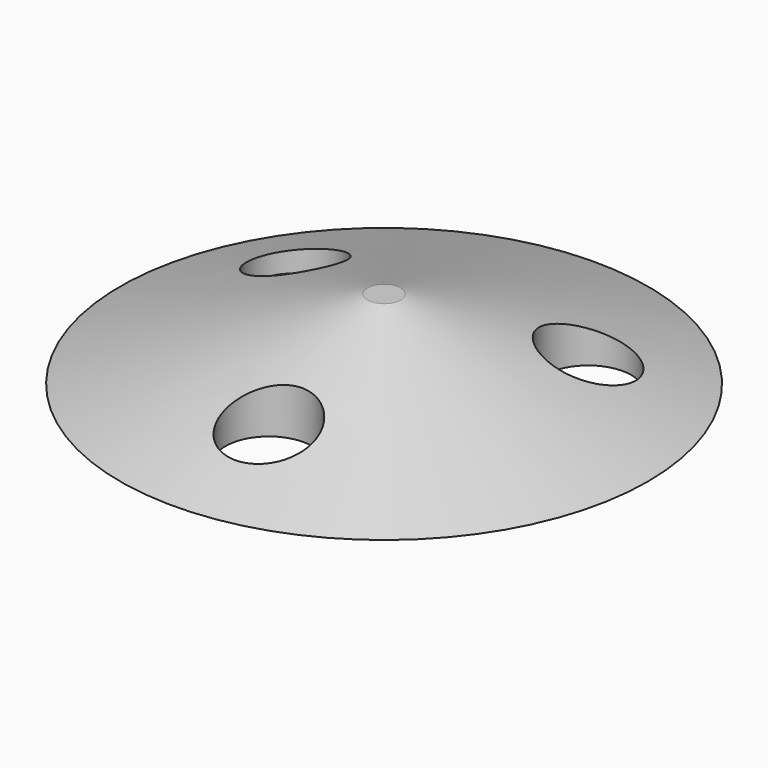
from build123d import *

# Parameters (mm, degrees)
F1_R     = 1.588821
F2_R     = 25.4
F4_R     = 4.161767
F5_DEPTH = 25.4


with BuildPart() as f3:
    # F1 (on offset) → F3 section 0
    with BuildSketch(Plane.XY.offset(7.62)):
        Circle(F1_R)
    # F2 (on Top) → F3 section 1
    with BuildSketch(Plane.XY):
        Circle(F2_R)
    loft()

    # F4 (on face) → F5 (cut)
    with BuildSketch(Plane(origin=(0, 0, 0), x_dir=(1, 0, 0), z_dir=(0, 0, -1))):
        with Locations((-13.861543, -6.645255)):
            Circle(F4_R)
        with Locations((1.175812, 15.327076)):
            Circle(F4_R)
        with Locations((12.685731, -8.681821)):
            Circle(F4_R)
    extrude(amount=-F5_DEPTH, mode=Mode.SUBTRACT)


solid = f3.part
